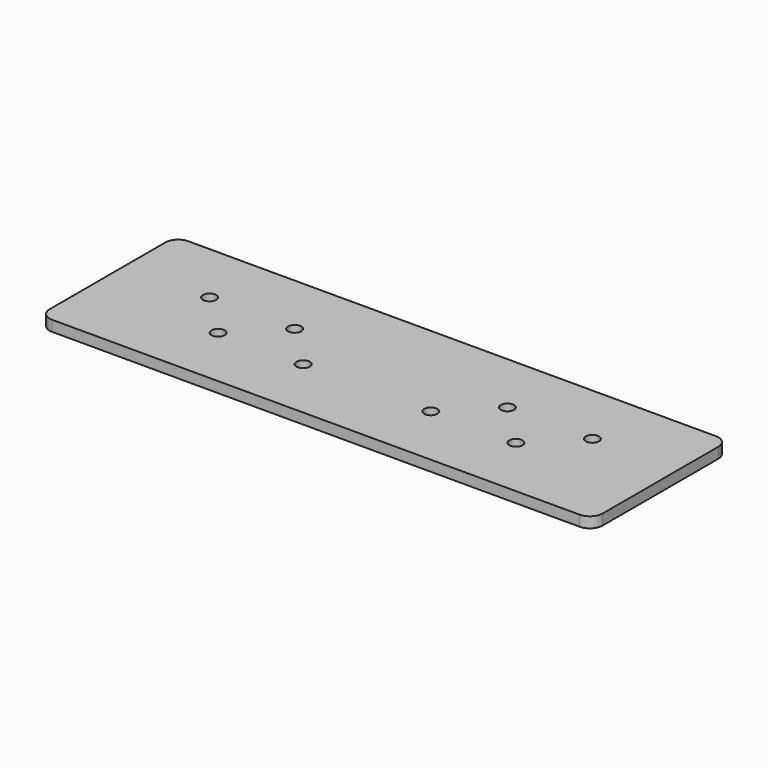
from build123d import *

# Parameters (mm, degrees)
SKETCH_W  = 130
SKETCH_H  = 40
SKETCH_R  = 1.5625
PAD_DEPTH = 2.5
FILLET_R  = 3


with BuildPart() as part:
    # Sketch → Pad (new body)
    with BuildSketch(Plane.XY):
        with Locations((65, 20)):
            Rectangle(SKETCH_W, SKETCH_H)
        with Locations((20, 25)):
            Circle(SKETCH_R, mode=Mode.SUBTRACT)
        with Locations((40, 25)):
            Circle(SKETCH_R, mode=Mode.SUBTRACT)
        with Locations((30, 15)):
            Circle(SKETCH_R, mode=Mode.SUBTRACT)
        with Locations((50, 15)):
            Circle(SKETCH_R, mode=Mode.SUBTRACT)
        with Locations((110, 25)):
            Circle(SKETCH_R, mode=Mode.SUBTRACT)
        with Locations((90, 25)):
            Circle(SKETCH_R, mode=Mode.SUBTRACT)
        with Locations((100, 15)):
            Circle(SKETCH_R, mode=Mode.SUBTRACT)
        with Locations((80, 15)):
            Circle(SKETCH_R, mode=Mode.SUBTRACT)
    extrude(amount=PAD_DEPTH)

    # Fillet
    fillet_edges = [part.edges().sort_by_distance(p)[0] for p in [
        (0, 0, 1.25),
        (130, 0, 1.25),
        (130, 40, 1.25),
        (0, 40, 1.25),
    ]]
    fillet(fillet_edges, radius=FILLET_R)


solid = part.part
